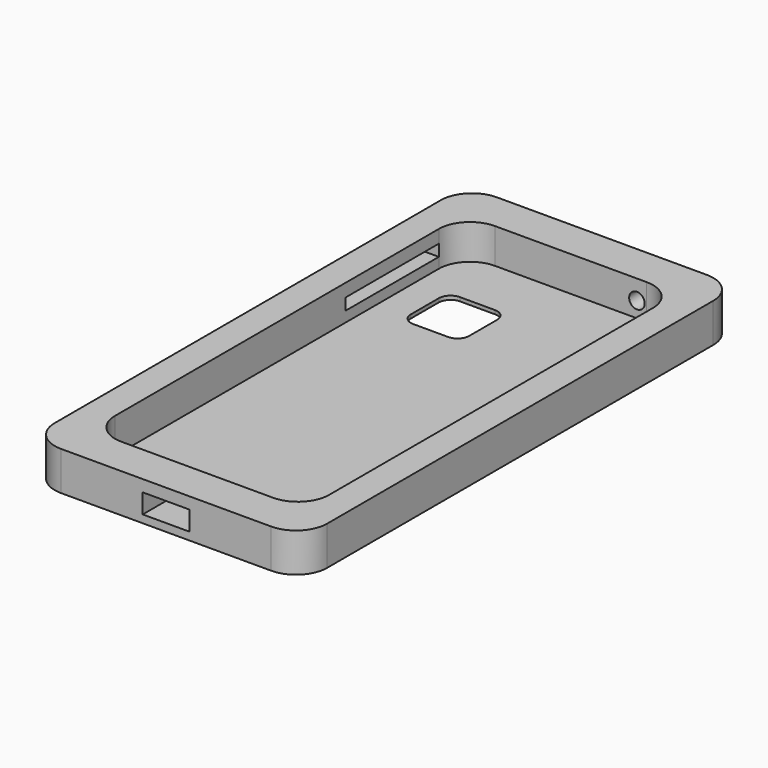
from build123d import *

# Parameters (mm, degrees)
F0_W      = 70
F0_H      = 140
F1_DEPTH  = 10
F3_R      = 8
F4_DEPTH  = 9
F6_DEPTH  = 1.001
F6_TAPER  = -3
F8_W      = 30
F8_H      = 3
F9_DEPTH  = 7.5
F10_R     = 2
F11_DEPTH = 25
F7_W      = 12
F7_H      = 5
F12_DEPTH = 10


with BuildPart() as f1:
    # F0 (on Top) → F1 (new body)
    with BuildSketch(Plane.XY):
        Rectangle(F0_W, F0_H)
    extrude(amount=F1_DEPTH)

    # F3
    f3_edges = [f1.edges().sort_by_distance(p)[0] for p in [
        (35, 70, 5),
        (-35, 70, 5),
        (35, -70, 5),
        (-35, -70, 5),
    ]]
    fillet(f3_edges, radius=F3_R)

    # F2 (on face) → F4 (cut)
    with BuildSketch(Plane.XY.offset(10)):
        with BuildLine():
            Line((19.5, 60), (-19.5, 60))
            ThreePointArc((-19.5, 60), (-25.1568542495, 57.6568542495), (-27.5, 52))
            Line((-27.5, 52), (-27.5, -52))
            ThreePointArc((-27.5, -52), (-25.1568542495, -57.6568542495), (-19.5, -60))
            Line((-19.5, -60), (19.5, -60))
            ThreePointArc((19.5, -60), (25.1568542495, -57.6568542495), (27.5, -52))
            Line((27.5, -52), (27.5, 52))
            ThreePointArc((27.5, 52), (25.1568542495, 57.6568542495), (19.5, 60))
        make_face()
    extrude(amount=-F4_DEPTH, mode=Mode.SUBTRACT)

    # F5 (on face) → F6 (cut, through all)
    with BuildSketch(Plane.XY.offset(1)):
        with BuildLine():
            Line((-7.5, 45), (-16.5, 45))
            ThreePointArc((-16.5, 45), (-18.6213203436, 44.1213203436), (-19.5, 42))
            Line((-19.5, 42), (-19.5, 33))
            ThreePointArc((-19.5, 33), (-18.6213203436, 30.8786796564), (-16.5, 30))
            Line((-16.5, 30), (-7.5, 30))
            ThreePointArc((-7.5, 30), (-5.3786796564, 30.8786796564), (-4.5, 33))
            Line((-4.5, 33), (-4.5, 42))
            ThreePointArc((-4.5, 42), (-5.3786796564, 44.1213203436), (-7.5, 45))
        make_face()
    extrude(amount=-F6_DEPTH, taper=F6_TAPER, mode=Mode.SUBTRACT)

    # F8 (on face) → F9 (cut, through all)
    with BuildSketch(Plane(origin=(-35, 0, 0), x_dir=(0, -1, 0), z_dir=(-1, 0, 0))):
        with Locations((-37, 5.1784133364)):
            Rectangle(F8_W, F8_H)
    extrude(amount=-F9_DEPTH, mode=Mode.SUBTRACT)

    # F10 (on face) → F11 (cut)
    with BuildSketch(Plane(origin=(0, 70, 0), x_dir=(-1, 0, 0), z_dir=(0, 1, 0))):
        with Locations((-17, 5)):
            Circle(F10_R)
    extrude(amount=-F11_DEPTH, mode=Mode.SUBTRACT)

    # F7 (on face) → F12 (cut, through all)
    with BuildSketch(Plane.XZ.offset(70)):
        with Locations((0, 4.5)):
            Rectangle(F7_W, F7_H)
    extrude(amount=-F12_DEPTH, mode=Mode.SUBTRACT)


solid = f1.part
